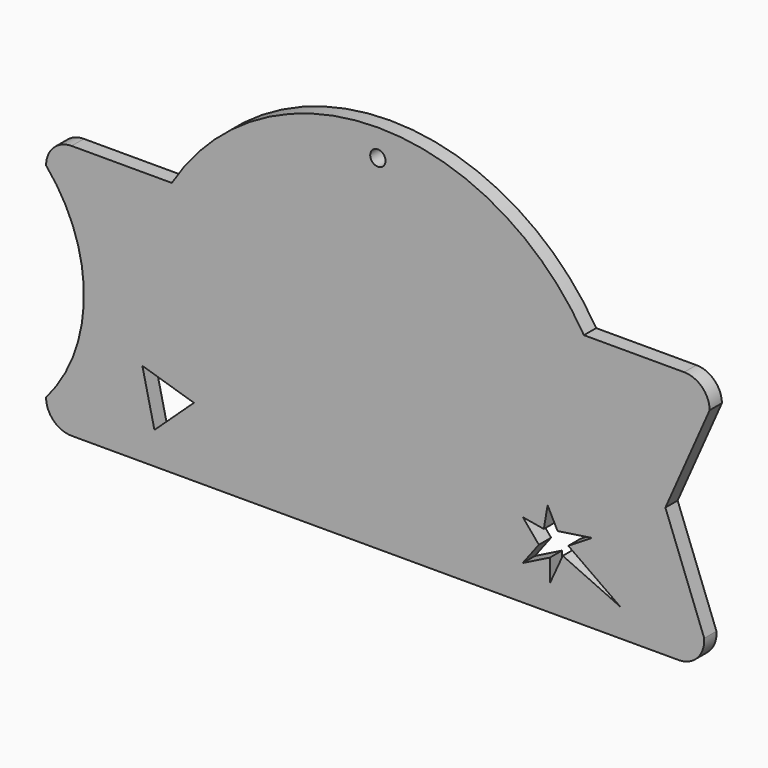
from build123d import *

# Parameters (mm, degrees)
F0_R     = 1.5
F1_DEPTH = 3


with BuildPart() as f1:
    # F0 (on Front) → F1 (new body)
    with BuildSketch(Plane.XZ):
        with BuildLine():
            ThreePointArc((-105.367149, 5), (-103.902683, 1.464466), (-100.367149, 0))
            Line((-100.367149, 0), (18.575362, 0))
            ThreePointArc((18.575362, 0), (22.247316, 1.606365), (23.55987, 5.393297))
            Line((23.55987, 5.393297), (15.960467, 25.450614))
            Line((15.960467, 25.450614), (24.632388, 45.068072))
            ThreePointArc((24.632388, 45.068072), (23.144235, 48.55952), (19.632851, 50))
            Line((19.632851, 50), (0, 50))
            Line((0, 50), (-80.734298, 50))
            Line((-80.734298, 50), (-100.367149, 50))
            ThreePointArc((-100.367149, 50), (-103.902683, 48.535534), (-105.367149, 45))
            ThreePointArc((-105.367149, 45), (-97.949964, 25), (-105.367149, 5))
        make_face()
        Polygon((-84.1418, 6.287222), (-86.508626, 16.589064), (-76.403555, 13.487874), align=None, mode=Mode.SUBTRACT)
        Polygon((-7.858331, 14.018881), (-7.118252, 18.348946), (-5.15774, 14.529726), (1.560258, 15.543763), (-3.065011, 12.678883), (7.115757, 5.482396), (-4.143703, 10.600331), (-6.678795, 5.023126), (-6.678795, 9.459539), (-12.00249, 6.797692), (-8.833624, 10.980595), (-11.966616, 14.721053), align=None, mode=Mode.SUBTRACT)
        with BuildLine():
            ThreePointArc((0, 50), (-40.367149, 72.696556), (-80.734298, 50))
            Line((-80.734298, 50), (0, 50))
        make_face()
        with Locations((-40.367149, 67.421167)):
            Circle(F0_R, mode=Mode.SUBTRACT)
    extrude(amount=F1_DEPTH)


solid = f1.part
